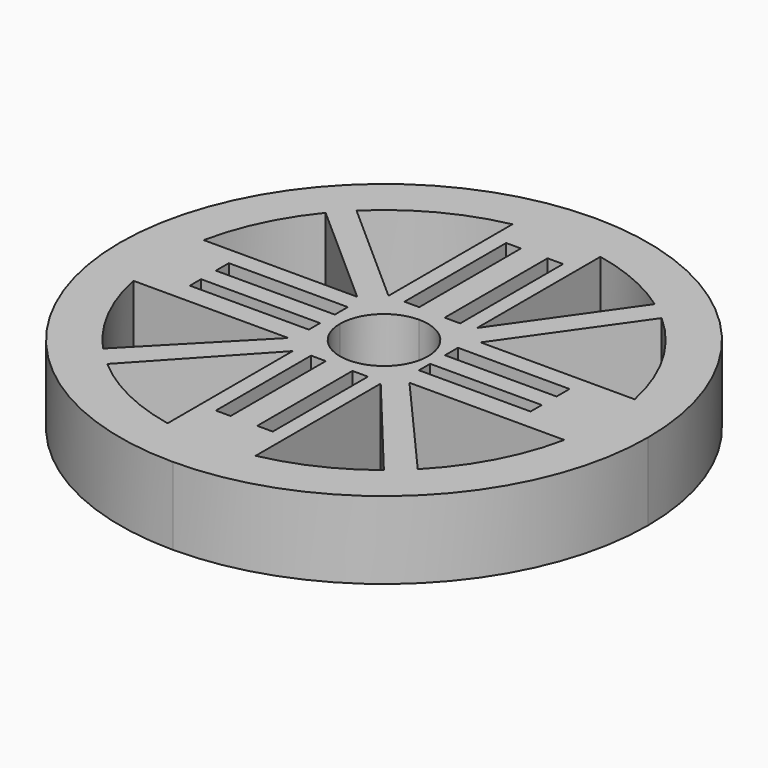
from build123d import *

# Parameters (mm, degrees)
F0_W     = 34.350958
F0_H     = 4.69392
F0_W_2   = 4.2672
F0_H_2   = 36.697921
F0_W_3   = 32.217363
F0_W_4   = 4.480557
F0_H_3   = 37.12464
F0_H_4   = 34.350963
F0_H_5   = 4.05384
F1_DEPTH = 11.176


with BuildPart() as f1:
    # F0 (on Top) → F1 (new body, symmetric)
    with BuildSketch(Plane.XY):
        with BuildLine():
            ThreePointArc((-12.7, 0), (-8.980256, 8.980256), (0, 12.7))
            Line((0, 12.7), (0, 76.2))
            ThreePointArc((0, 76.2), (-53.881537, 53.881537), (-76.2, 0))
            Line((-76.2, 0), (-12.7, 0))
        make_face()
        with BuildLine():
            Line((-49.08218, 40.288828), (-17.906999, 12.7))
            Line((-17.906999, 12.7), (-62.217039, 12.7))
            ThreePointArc((-62.217039, 12.7), (-57.333802, 27.296247), (-49.08218, 40.288828))
        make_face(mode=Mode.SUBTRACT)
        with Locations((-33.588959, 5.12064)):
            Rectangle(F0_W, F0_H, mode=Mode.SUBTRACT)
        with Locations((-5.958838, 35.844481)):
            Rectangle(F0_W_2, F0_H_2, mode=Mode.SUBTRACT)
        with BuildLine():
            ThreePointArc((-44.31846, 45.476633), (-29.712564, 56.119636), (-12.7, 62.217039))
            Line((-12.7, 62.217039), (-12.7, 17.49552))
            Line((-12.7, 17.49552), (-44.31846, 45.476633))
        make_face(mode=Mode.SUBTRACT)
        with BuildLine():
            ThreePointArc((0, 12.7), (8.980256, 8.980256), (12.7, 0))
            Line((12.7, 0), (76.2, 0))
            ThreePointArc((76.2, 0), (53.881537, 53.881537), (0, 76.2))
            Line((0, 76.2), (0, 12.7))
        make_face()
        with Locations((31.485843, 5.12064)):
            Rectangle(F0_W_3, F0_H, mode=Mode.SUBTRACT)
        with Locations((6.096001, 35.631121)):
            Rectangle(F0_W_4, F0_H_3, mode=Mode.SUBTRACT)
        with BuildLine():
            Line((62.217039, 12.7), (17.724123, 12.7))
            Line((17.724123, 12.7), (42.179105, 47.467601))
            ThreePointArc((42.179105, 47.467601), (55.016682, 31.708276), (62.217039, 12.7))
        make_face(mode=Mode.SUBTRACT)
        with BuildLine():
            Line((36.695692, 51.82351), (12.7, 17.708881))
            Line((12.7, 17.708881), (12.7, 62.217039))
            ThreePointArc((12.7, 62.217039), (25.23866, 58.26886), (36.695692, 51.82351))
        make_face(mode=Mode.SUBTRACT)
        with BuildLine():
            Line((76.2, 0), (12.7, 0))
            ThreePointArc((12.7, 0), (8.980256, -8.980256), (0, -12.7))
            Line((0, -12.7), (0, -76.2))
            ThreePointArc((0, -76.2), (53.881537, -53.881537), (76.2, 0))
        make_face()
        with BuildLine():
            Line((12.7, -62.217039), (12.7, -17.068801))
            Line((12.7, -17.068801), (39.648922, -49.600534))
            ThreePointArc((39.648922, -49.600534), (26.923901, -57.509595), (12.7, -62.217039))
        make_face(mode=Mode.SUBTRACT)
        with Locations((6.096001, -33.390842)):
            Rectangle(F0_W_4, F0_H_4, mode=Mode.SUBTRACT)
        with Locations((31.485843, -4.58724)):
            Rectangle(F0_W_3, F0_H_5, mode=Mode.SUBTRACT)
        with BuildLine():
            Line((45.322148, -44.476431), (17.510762, -12.7))
            Line((17.510762, -12.7), (62.217039, -12.7))
            ThreePointArc((62.217039, -12.7), (56.067857, -29.810156), (45.322148, -44.476431))
        make_face(mode=Mode.SUBTRACT)
        with BuildLine():
            Line((0, -76.2), (0, -12.7))
            ThreePointArc((0, -12.7), (-8.980256, -8.980256), (-12.7, 0))
            Line((-12.7, 0), (-76.2, 0))
            ThreePointArc((-76.2, 0), (-53.881537, -53.881537), (0, -76.2))
        make_face()
        with BuildLine():
            Line((-41.441198, -48.11317), (-12.7, -17.068801))
            Line((-12.7, -17.068801), (-12.7, -62.217039))
            ThreePointArc((-12.7, -62.217039), (-27.974043, -57.006165), (-41.441198, -48.11317))
        make_face(mode=Mode.SUBTRACT)
        with BuildLine():
            Line((-62.217039, -12.7), (-17.48028, -12.7))
            Line((-17.48028, -12.7), (-46.881881, -42.829186))
            ThreePointArc((-46.881881, -42.829186), (-56.591392, -28.803896), (-62.217039, -12.7))
        make_face(mode=Mode.SUBTRACT)
        with Locations((-5.958838, -33.390842)):
            Rectangle(F0_W_2, F0_H_4, mode=Mode.SUBTRACT)
        with Locations((-33.588959, -4.58724)):
            Rectangle(F0_W, F0_H_5, mode=Mode.SUBTRACT)
    extrude(amount=F1_DEPTH, both=True)


solid = f1.part
